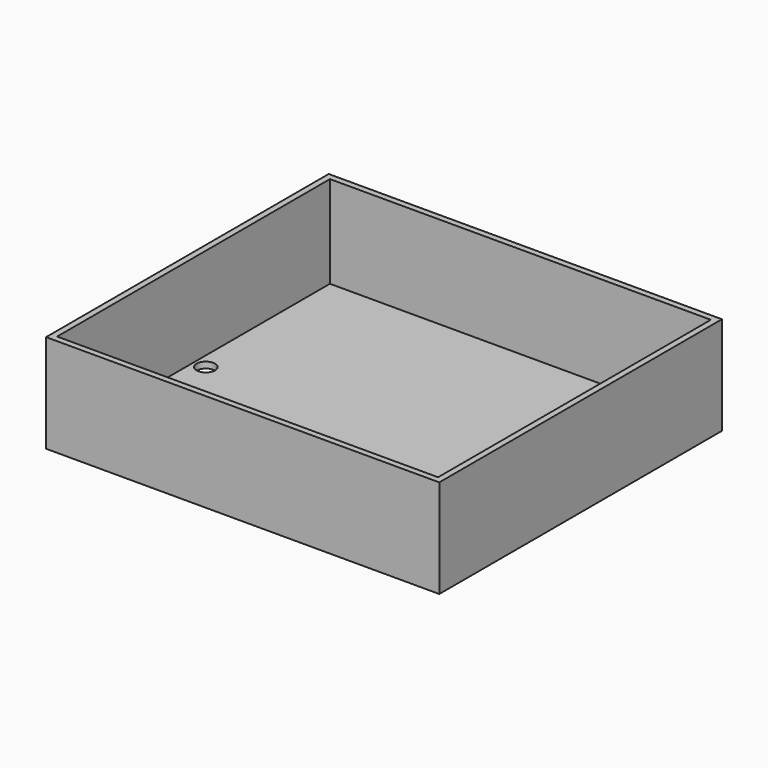
from build123d import *

# Parameters (mm, degrees)
SKETCH001_W     = 64
SKETCH001_H     = 57.5
PAD_DEPTH       = 16
SKETCH003_W     = 62
SKETCH003_H     = 55.5
POCKET001_DEPTH = 15
SKETCH002_R     = 1.5
POCKET_DEPTH    = 16.001


with BuildPart() as part:
    # Sketch001 → Pad (new body)
    with BuildSketch(Plane.XY):
        Rectangle(SKETCH001_W, SKETCH001_H)
    extrude(amount=PAD_DEPTH)

    # Sketch003 (on Face6 of Pad) → Pocket001 (cut)
    with BuildSketch(Plane.XY.offset(16)):
        Rectangle(SKETCH003_W, SKETCH003_H)
    extrude(amount=-POCKET001_DEPTH, mode=Mode.SUBTRACT)

    # Sketch002 (on Face6 of Pad) → Pocket (cut, through all)
    with BuildSketch(Plane.XY.offset(16)):
        with Locations((-29, 0)):
            Circle(SKETCH002_R)
        with Locations((29, 0)):
            Circle(SKETCH002_R)
    extrude(amount=-POCKET_DEPTH, mode=Mode.SUBTRACT)


solid = part.part
